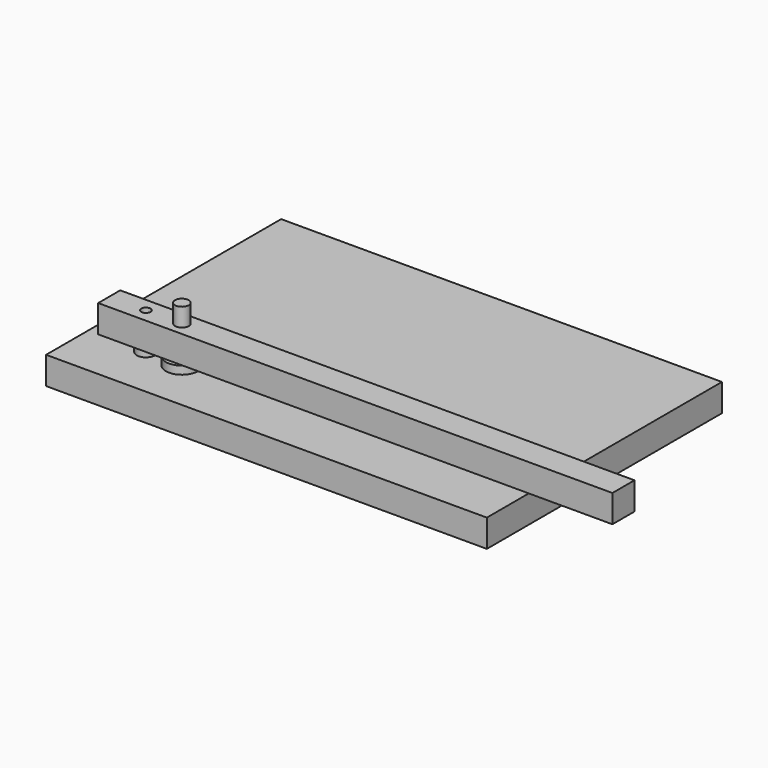
from build123d import *

# Parameters (mm, degrees)
F0_R     = 3.175
F1_DEPTH = 19.05
F2_DEPTH = 5.55625
F0_R_2   = 6.35
F3_DEPTH = 6.35
F0_R_3   = 11.1125
F0_R_4   = 4.7625
F4_DEPTH = 5.55625
F5_DEPTH = 38.1
F6_W     = 304.8
F6_H     = 203.2
F6_R     = 3.175
F7_DEPTH = 19.05
F8_R     = 6.35
F8_R_2   = 3.175
F9_DEPTH = 19.05


with BuildPart() as f1:
    # F0 (on Top) → F1 (new body, symmetric)
    with BuildSketch(Plane.XY):
        Circle(F0_R)
    extrude(amount=F1_DEPTH, both=True)


with BuildPart() as f2:
    # F0 (on Top) → F2 (new body, symmetric)
    with BuildSketch(Plane.XY):
        with Locations((-10.16, 9.0623555084)):
            Circle(F0_R)
    extrude(amount=F2_DEPTH, both=True)


with BuildPart() as f3:
    # F0 (on Top) → F3 (new body)
    with BuildSketch(Plane.XY):
        Circle(F0_R_2)
        Circle(F0_R, mode=Mode.SUBTRACT)
    extrude(amount=F3_DEPTH)


with BuildPart() as f4:
    # F0 (on Top) → F4 (new body)
    with BuildSketch(Plane.XY):
        with Locations((24.892, 0)):
            Circle(F0_R_3)
        with Locations((24.892, 0)):
            Circle(F0_R_4, mode=Mode.SUBTRACT)
    extrude(amount=F4_DEPTH)

    # F0 (on Top) → F5 (join)
    with BuildSketch(Plane.XY):
        with Locations((24.892, 0)):
            Circle(F0_R_4)
    extrude(amount=F5_DEPTH)

    # F8 (on face) → F9 (join)
    with BuildSketch(Plane.XY.offset(6.35)):
        Polygon((-25.4, 9.525), (-25.4, -9.525), (25.4, -9.525), (330.2, -9.525), (330.2, 9.525), (25.4, 9.525), align=None)
        Circle(F8_R, mode=Mode.SUBTRACT)
        Circle(F8_R)
        Circle(F8_R_2, mode=Mode.SUBTRACT)
    extrude(amount=F9_DEPTH)


with BuildPart() as f7:
    # F6 (on Top) → F7 (new body)
    with BuildSketch(Plane.XY):
        with Locations((112.3497951567, 65.3468792498)):
            Rectangle(F6_W, F6_H)
        with Locations((-10.1294061169, 9.0074846521)):
            Circle(F6_R, mode=Mode.SUBTRACT)
        Circle(F6_R, mode=Mode.SUBTRACT)
    extrude(amount=-F7_DEPTH)


solid = Compound([f1.part, f2.part, f3.part, f4.part, f7.part])
